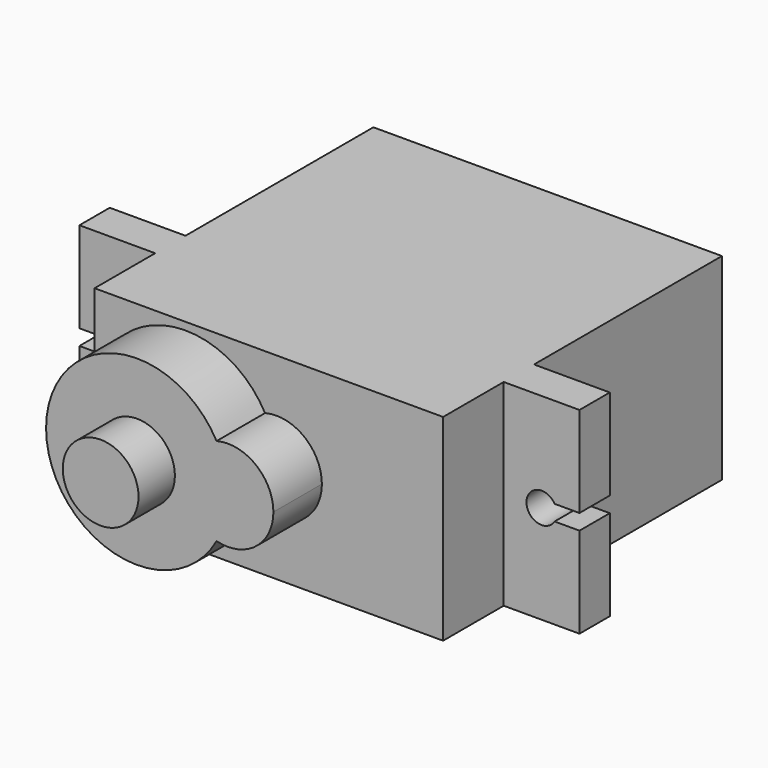
from build123d import *

# Parameters (mm, degrees)
F0_R     = 2.5
F1_DEPTH = 23
F2_START = 15.5
F2_DEPTH = 2.5
F4_START = 23
F4_DEPTH = 4
F5_DEPTH = 30


with BuildPart() as f1:
    # F0 (on Front) → F1 (new body)
    with BuildSketch(Plane.XZ):
        Polygon((-11.5, -6.5), (11.5, -6.5), (11.5, 6.5), (-11.5, 6.5), (-11.5, 0), align=None)
        with BuildLine():
            ThreePointArc((-0.25, -2.9047375097), (-7, -5.8094750193), (-11.5, 0))
            ThreePointArc((-11.5, 0), (-7, 5.8094750193), (-0.25, 2.9047375097))
            ThreePointArc((-0.25, 2.9047375097), (2.3371173071, 2.3717082451), (3.5, 0))
            ThreePointArc((3.5, 0), (2.3371173071, -2.3717082451), (-0.25, -2.9047375097))
        make_face(mode=Mode.SUBTRACT)
        with BuildLine():
            ThreePointArc((3.5, 0), (2.3371173071, 2.3717082451), (-0.25, 2.9047375097))
            ThreePointArc((-0.25, 2.9047375097), (0.3094750193, 1.5), (0.5, 0))
            ThreePointArc((0.5, 0), (0.3094750193, -1.5), (-0.25, -2.9047375097))
            ThreePointArc((-0.25, -2.9047375097), (2.3371173071, -2.3717082451), (3.5, 0))
        make_face()
        with BuildLine():
            ThreePointArc((0.5, 0), (0.3094750193, 1.5), (-0.25, 2.9047375097))
            ThreePointArc((-0.25, 2.9047375097), (-2.5, 0), (-0.25, -2.9047375097))
            ThreePointArc((-0.25, -2.9047375097), (0.3094750193, -1.5), (0.5, 0))
        make_face()
        with BuildLine():
            ThreePointArc((-0.25, 2.9047375097), (-7, 5.8094750193), (-11.5, 0))
            ThreePointArc((-11.5, 0), (-7, -5.8094750193), (-0.25, -2.9047375097))
            ThreePointArc((-0.25, -2.9047375097), (-2.5, 0), (-0.25, 2.9047375097))
        make_face()
        with Locations((-5.5, 0)):
            Circle(F0_R, mode=Mode.SUBTRACT)
    extrude(amount=F1_DEPTH)

    # F0 (on Front) → F2 (join)
    with BuildSketch(Plane.XZ.offset(F2_START)):
        with BuildLine():
            Line((11.5, 6.5), (11.5, -6.5))
            Line((11.5, -6.5), (16.5, -6.5))
            Line((16.5, -6.5), (16.5, -0.5126835662))
            Line((16.5, -0.5126835662), (14.8585776383, -0.5126835662))
            ThreePointArc((14.8585776383, -0.5126835662), (13, 0), (14.8585776383, 0.5126835662))
            Line((14.8585776383, 0.5126835662), (16.5, 0.5126835662))
            Line((16.5, 0.5126835662), (16.5, 6.5))
            Line((16.5, 6.5), (11.5, 6.5))
        make_face()
    extrude(amount=F2_DEPTH)

    # F3: F1 across plane


with BuildPart() as f1_1:
    add(f1.part)
    add(f1.part.mirror(Plane.YZ))

    # F0 (on Front) → F4 (join)
    with BuildSketch(Plane.XZ.offset(F4_START)):
        with BuildLine():
            ThreePointArc((-0.25, 2.9047375097), (-7, 5.8094750193), (-11.5, 0))
            ThreePointArc((-11.5, 0), (-7, -5.8094750193), (-0.25, -2.9047375097))
            ThreePointArc((-0.25, -2.9047375097), (-2.5, 0), (-0.25, 2.9047375097))
        make_face()
        with Locations((-5.5, 0)):
            Circle(F0_R, mode=Mode.SUBTRACT)
        with BuildLine():
            ThreePointArc((3.5, 0), (2.3371173071, 2.3717082451), (-0.25, 2.9047375097))
            ThreePointArc((-0.25, 2.9047375097), (0.3094750193, 1.5), (0.5, 0))
            ThreePointArc((0.5, 0), (0.3094750193, -1.5), (-0.25, -2.9047375097))
            ThreePointArc((-0.25, -2.9047375097), (2.3371173071, -2.3717082451), (3.5, 0))
        make_face()
        with BuildLine():
            ThreePointArc((0.5, 0), (0.3094750193, 1.5), (-0.25, 2.9047375097))
            ThreePointArc((-0.25, 2.9047375097), (-2.5, 0), (-0.25, -2.9047375097))
            ThreePointArc((-0.25, -2.9047375097), (0.3094750193, -1.5), (0.5, 0))
        make_face()
    extrude(amount=F4_DEPTH)

    # F0 (on Front) → F5 (join)
    with BuildSketch(Plane.XZ):
        with Locations((-5.5, 0)):
            Circle(F0_R)
    extrude(amount=F5_DEPTH)


solid = f1_1.part
